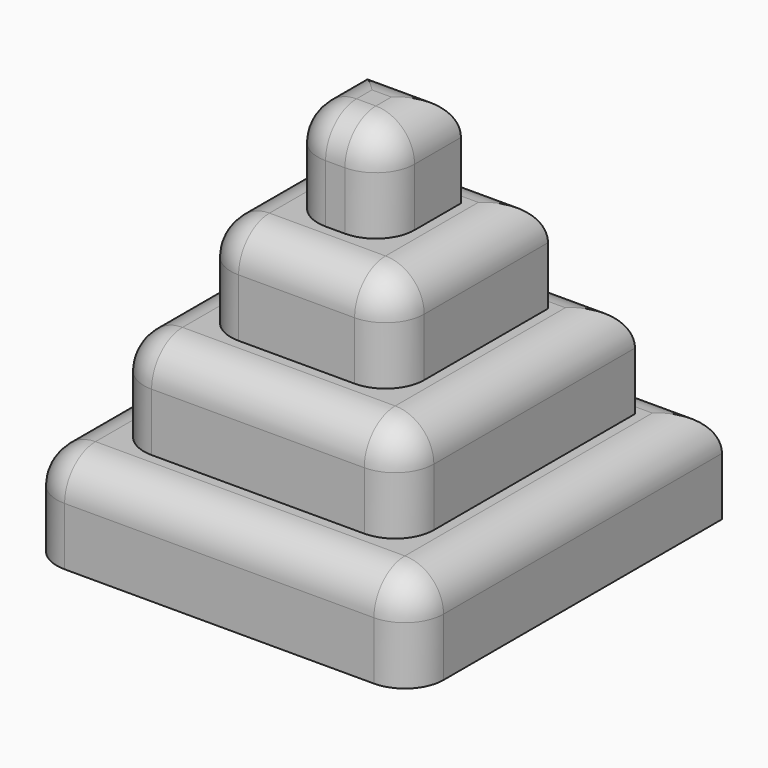
from build123d import *

# Parameters (mm, degrees)
F1_W     = 25
F1_H     = 25
F1_W_2   = 18.75
F1_H_2   = 18.75
F2_DEPTH = 6.25
F1_W_3   = 12.5
F1_H_3   = 12.5
F3_DEPTH = 12.5
F1_W_4   = 6.25
F1_H_4   = 6.25
F4_DEPTH = 18.75
F5_DEPTH = 25
F6_R     = 2.5


with BuildPart() as f2:
    # F1 (on Top) → F2 (new body)
    with BuildSketch(Plane.XY):
        with Locations((12.5, 12.5)):
            Rectangle(F1_W, F1_H)
        with Locations((12.5, 12.5)):
            Rectangle(F1_W_2, F1_H_2, mode=Mode.SUBTRACT)
    extrude(amount=F2_DEPTH)

    # F1 (on Top) → F3 (join)
    with BuildSketch(Plane.XY):
        with Locations((12.5, 12.5)):
            Rectangle(F1_W_2, F1_H_2)
        with Locations((12.5, 12.5)):
            Rectangle(F1_W_3, F1_H_3, mode=Mode.SUBTRACT)
    extrude(amount=F3_DEPTH)

    # F1 (on Top) → F4 (join)
    with BuildSketch(Plane.XY):
        with Locations((12.5, 12.5)):
            Rectangle(F1_W_3, F1_H_3)
        with Locations((12.5, 12.5)):
            Rectangle(F1_W_4, F1_H_4, mode=Mode.SUBTRACT)
    extrude(amount=F4_DEPTH)

    # F1 (on Top) → F5 (join)
    with BuildSketch(Plane.XY):
        with Locations((12.5, 12.5)):
            Rectangle(F1_W_4, F1_H_4)
    extrude(amount=F5_DEPTH)

    # F6
    f6_edges = [f2.edges().sort_by_distance(p)[0] for p in [
        (18.75, 12.5, 18.75),
        (12.5, 18.75, 18.75),
        (6.25, 12.5, 18.75),
        (12.5, 6.25, 18.75),
        (12.5, 15.625, 25),
        (9.375, 12.5, 25),
        (12.5, 9.375, 25),
        (15.625, 12.5, 25),
        (12.5, 3.125, 12.5),
        (21.875, 12.5, 12.5),
        (12.5, 21.875, 12.5),
        (3.125, 12.5, 12.5),
        (12.5, 25, 6.25),
        (0, 12.5, 6.25),
        (12.5, 0, 6.25),
        (15.625, 9.375, 21.875),
        (9.375, 9.375, 21.875),
        (6.25, 6.25, 15.625),
        (18.75, 6.25, 15.625),
        (3.125, 3.125, 9.375),
        (21.875, 3.125, 9.375),
        (25, 12.5, 6.25),
        (25, 0, 3.125),
        (0, 0, 3.125),
    ]]
    fillet(f6_edges, radius=F6_R)


solid = f2.part
